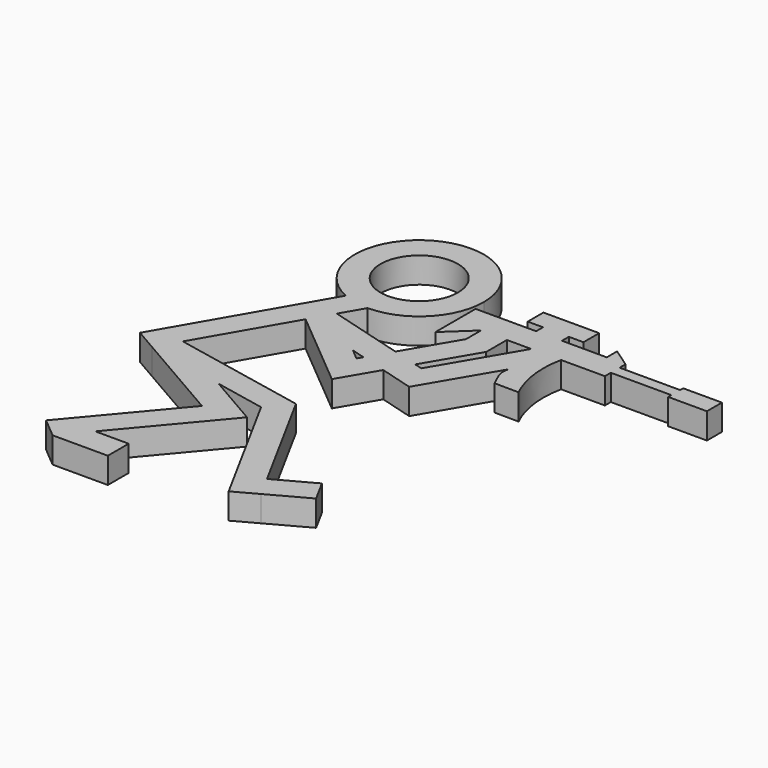
from build123d import *

# Parameters (mm, degrees)
F0_R     = 4.5
F0_W     = 3
F0_H     = 1
F0_W_2   = 7.0277534574
F0_H_2   = 1.2749875896
F1_DEPTH = 3


with BuildPart() as f1:
    # F0 (on Top) → F1 (new body)
    with BuildSketch(Plane.XY):
        Polygon((-4.1637797104, -41.8606549501), (-6.7042714065, -44.8882950559), (-0.2824602816, -44.8882950559), (-0.2824602816, -41.8606549501), align=None)
        Polygon((18.2917818669, -37.0030690839), (13.8459346985, -39.4238555835), (15.287962521, -42.0721830228), (19.7338096894, -39.6513965232), align=None)
        with BuildLine():
            Line((20.0931232855, -4.5), (17.5061095506, -8.9005073532))
            add(Edge.make_bspline(
                [(17.5061095506, -8.9005073532), (17.1876271966, -10.0472141246), (17.7320782095, -10.7365008444), (18.2405058295, -11.8380971253)],
                knots=[0, 0, 0, 0, 3.0279979464, 3.0279979464, 3.0279979464, 3.0279979464], degree=3))
            Line((18.2405058295, -11.8380971253), (21.0368651897, -11.8663432077))
            add(Edge.make_bspline(
                [(20.0931232855, -4.5), (19.4921626481, -7.1492516436), (20.0482551008, -9.8608732224), (21.0368651897, -11.8663432077)],
                knots=[0, 0, 0, 0, 7.4265510861, 7.4265510861, 7.4265510861, 7.4265510861], degree=3))
        make_face()
        Polygon((7.7516334131, -7.340258453), (10.7868194878, -4.5), (8.7868194878, -4.5), (8.7868194878, -1.5), (7.7516334131, -1.5), align=None)
        Polygon((22.9948423803, 0), (22.9948423803, -1.5), (25.1779548675, -1.5), align=None)
        Polygon((13.0062326789, -0.5), (14.7868194878, -0.5), (17.7868194878, -0.5), (19.4885041565, -0.5), (19.4885041565, 1.7825388878), (13.0062326789, 1.7825388878), align=None)
        Polygon((32.2057083249, -2.3615248501), (32.2057083249, -3.6365124397), (32.2057083249, -4.0966966189), (36.7129221559, -4.0966966189), (36.7129221559, -1.9171516178), (32.2057083249, -1.9171516178), align=None)
        with BuildLine():
            ThreePointArc((0, -7.5), (5.3033008589, -5.3033008589), (7.5, 0))
            ThreePointArc((7.5, 0), (-4.0704650366, 6.2993106279), (-3.0816838363, -6.8376329774))
            ThreePointArc((-3.0816838363, -6.8376329774), (-1.5760318318, -7.3325386917), (0, -7.5))
        make_face()
        Circle(F0_R, mode=Mode.SUBTRACT)
        Polygon((-1.2683224195, -27.5578969), (-10.5024047358, -25.6906986041), (0.2696389092, -31.9099409022), (-9.0024047358, -42.9599322269), (-6.7042714065, -44.8882950559), (-4.1637797104, -41.8606549501), (4.8659055679, -31.0994950798), align=None)
        Polygon((6.6801939907, -26.2637573918), (-9.0024047358, -23.0926223927), (-1.2683224195, -27.5578969), (4.616944438, -28.7479404659), (12.6532249158, -43.5068111111), (15.287962521, -42.0721830228), (13.8459346985, -39.4238555835), align=None)
        with Locations((16.2868194878, -1)):
            Rectangle(F0_W, F0_H)
        with Locations((28.6918315962, -2.9990186449)):
            Rectangle(F0_W_2, F0_H_2)
        with BuildLine():
            ThreePointArc((0, -7.5), (-1.5760318318, -7.3325386917), (-3.0816838363, -6.8376329774))
            Line((-3.0816838363, -6.8376329774), (-13.1004809472, -24.1906986041))
            Line((-13.1004809472, -24.1906986041), (-10.5024047358, -25.6906986041))
            Line((-10.5024047358, -25.6906986041), (-9.0024047358, -23.0926223927))
            Line((-9.0024047358, -23.0926223927), (-3.0226226668, -12.7353360311))
            Line((-3.0226226668, -12.7353360311), (-1.5, -10.0980762114))
            Line((-1.5, -10.0980762114), (0, -7.5))
        make_face()
        Polygon((-9.0024047358, -23.0926223927), (-10.5024047358, -25.6906986041), (-1.2683224195, -27.5578969), align=None)
        Polygon((7.3079936046, -12.6009674235), (-1.5, -10.0980762114), (4.1536087006, -14.8233836279), (5.7369513921, -15.2733083993), align=None)
        Polygon((10.7868194878, -6.6834886435), (7.3079936046, -12.6009674235), (10.2898728273, -13.4483022011), (13.7868194878, -7.5), (13.7868194878, -4.5), (10.7868194878, -4.5), align=None)
        Polygon((4.1536087006, -14.8233836279), (-1.5, -10.0980762114), (-3.0226226668, -12.7353360311), (6.1848361783, -20.4309647653), (8.7188306148, -16.1206431769), (5.7369513921, -15.2733083993), (5.3926443474, -15.8589742818), align=None)
        Polygon((10.2898728273, -13.4483022011), (7.3079936046, -12.6009674235), (5.7369513921, -15.2733083993), (8.7188306148, -16.1206431769), align=None)
        Polygon((11.2003825099, -13.7070338471), (10.2898728273, -13.4483022011), (8.7188306148, -16.1206431769), (12.61121952, -17.2267096005), (17.5061095506, -8.9005073532), (20.0931232855, -4.5), (16.613104523, -4.5), align=None)
        Polygon((8.7868194878, -4.5), (10.7868194878, -4.5), (13.7868194878, -4.5), (16.613104523, -4.5), (20.0931232855, -4.5), (25.1779548675, -4.5), (25.1779548675, -3.6365124397), (25.1779548675, -2.3615248501), (25.1779548675, -1.5), (22.9948423803, -1.5), (17.7868194878, -1.5), (14.7868194878, -1.5), (8.7868194878, -1.5), align=None)
    extrude(amount=F1_DEPTH)


solid = f1.part
